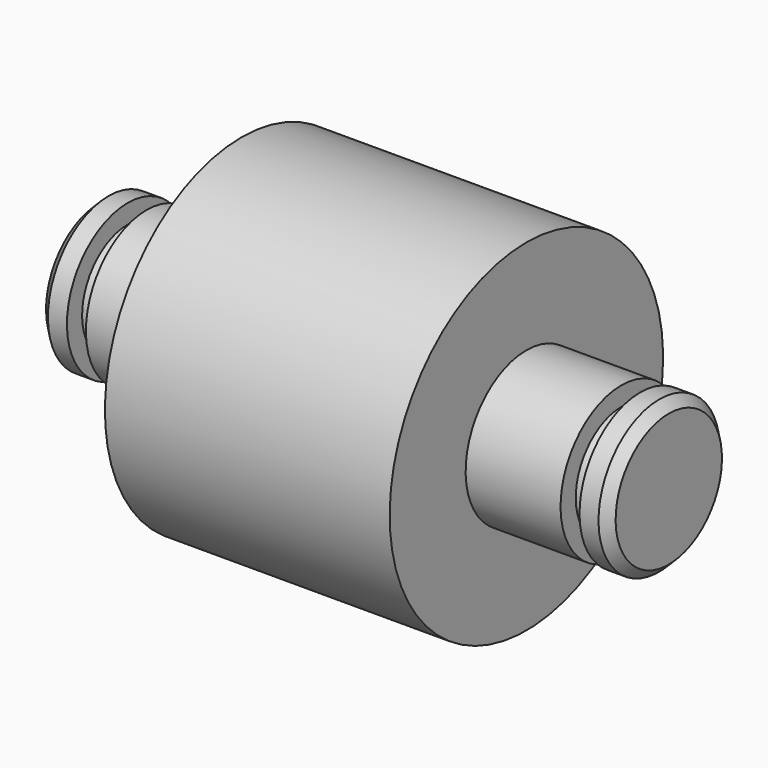
from build123d import *

# Parameters (mm, degrees)
F2_SIZE = 0.5


with BuildPart() as f1:
    # F0 (on Front) → F1 (revolve)
    with BuildSketch(Plane.XZ):
        Polygon((-30, 0), (0, 0), (0, 4), (-1.5, 4), (-1.5, 3), (-2.5, 3), (-2.5, 4), (-7.5, 4), (-7.5, 9), (-22.5, 9), (-22.5, 4), (-27.5, 4), (-27.5, 3), (-28.5, 3), (-28.5, 4), (-30, 4), align=None)
    revolve(axis=Axis((-15, 0, 0), (1, 0, 0)))

    # F2
    f2_edges = [f1.edges().sort_by_distance(p)[0] for p in [
        (0, 0, -4),
        (-30, 0, -4),
    ]]
    chamfer(f2_edges, length=F2_SIZE)


solid = f1.part
